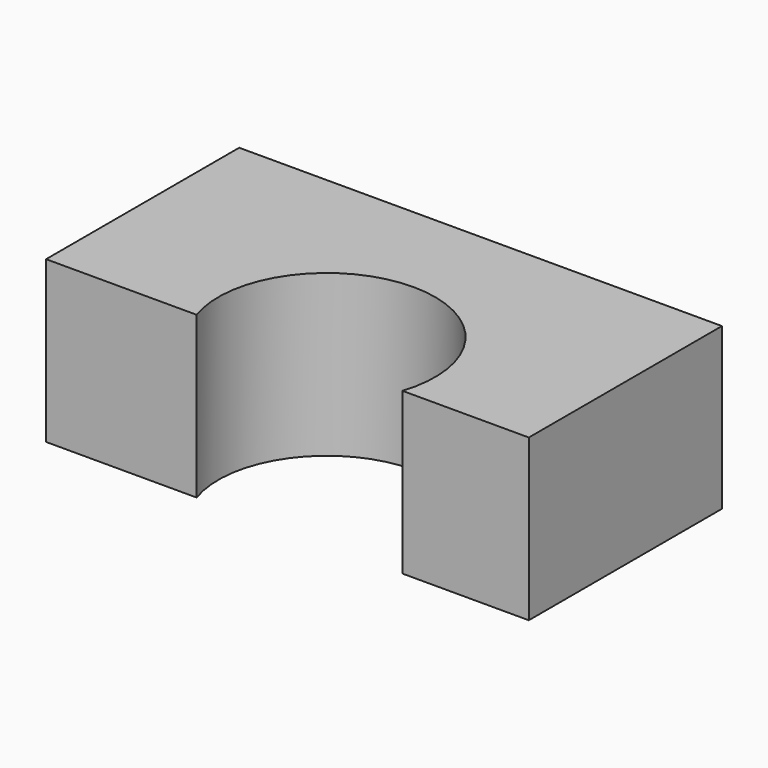
from build123d import *

# Parameters (mm, degrees)
F1_DEPTH = 25.4
F2_DEPTH = 25.4


with BuildPart() as f1:
    # F0 (on Top) → F1 (new body)
    with BuildSketch(Plane.XY):
        with BuildLine():
            Line((33.487893, 38.1), (-42.712107, 38.1))
            Line((-42.712107, 38.1), (-42.712107, 0))
            Line((-42.712107, 0), (-18.949738, 0))
            ThreePointArc((-18.949738, 0), (-2.707106, 22.487095), (13.535526, 0))
            Line((13.535526, 0), (33.487893, 0))
            Line((33.487893, 0), (33.487893, 38.1))
        make_face()
        with BuildLine():
            ThreePointArc((13.535526, 0), (-2.707106, 22.487095), (-18.949738, 0))
            Line((-18.949738, 0), (13.535526, 0))
        make_face()
    extrude(amount=F1_DEPTH)

    # F0 (on Top) → F2 (cut)
    with BuildSketch(Plane.XY):
        with BuildLine():
            ThreePointArc((13.535526, 0), (-2.707106, 22.487095), (-18.949738, 0))
            Line((-18.949738, 0), (13.535526, 0))
        make_face()
    extrude(amount=F2_DEPTH, mode=Mode.SUBTRACT)


solid = f1.part
